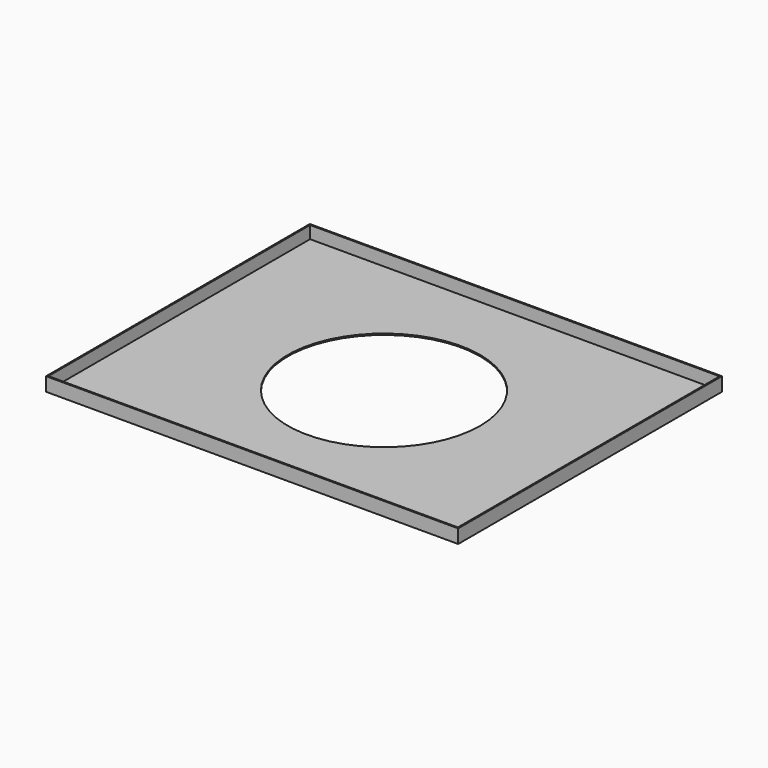
from build123d import *

# Parameters (mm, degrees)
F0_W     = 1524
F0_H     = 1219.2
F1_DEPTH = 50.8
F2_T     = -4.7625
F4_R     = 355.553582
F5_DEPTH = 25.4


with BuildPart() as f1:
    # F0 (on Top) → F1 (new body)
    with BuildSketch(Plane.XY):
        Rectangle(F0_W, F0_H)
    extrude(amount=F1_DEPTH)

    # F2
    f2_openings = [f1.faces().sort_by_distance(p)[0] for p in [
        (0, 0, 50.8),
    ]]
    offset(amount=F2_T, openings=f2_openings)

    # F4 (on face) → F5 (cut)
    with BuildSketch(Plane.XY.offset(4.7625)):
        Circle(F4_R)
    extrude(amount=-F5_DEPTH, mode=Mode.SUBTRACT)


solid = f1.part
